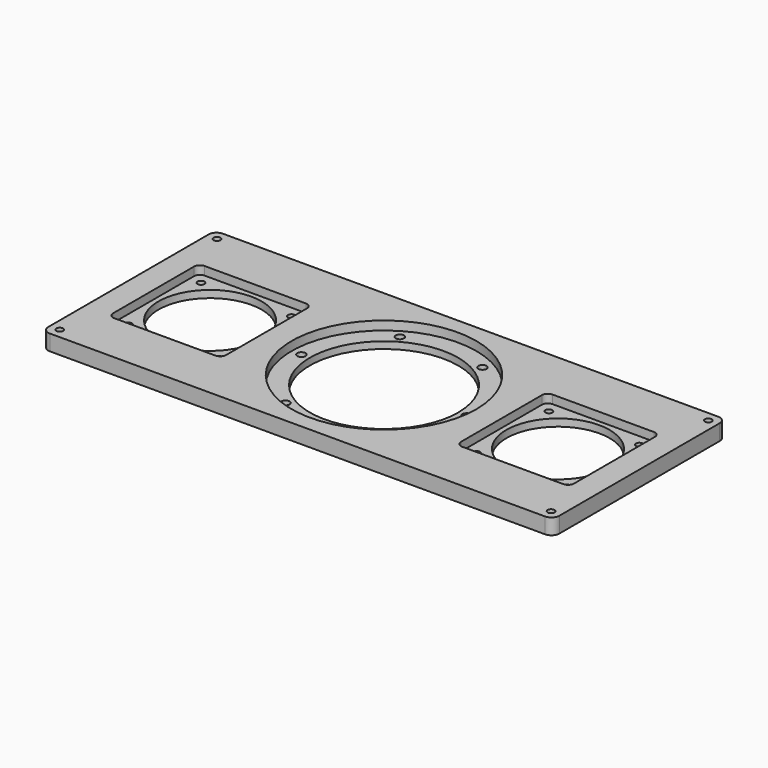
from build123d import *

# Parameters (mm, degrees)
SKETCH_W           = 260
SKETCH_H           = 110
SKETCH_R           = 37.75
SKETCH_R_2         = 26.25
SKETCH_R_3         = 1.75
PAD_DEPTH          = 8
SKETCH001_R        = 2.1
POCKET_DEPTH       = 8
POLARPATTERN_COUNT = 6
SKETCH002_R        = 47
SKETCH002_R_2      = 1.75
POCKET001_DEPTH    = 4.5
SKETCH003_R        = 26.25
POCKET002_DEPTH    = 4.3
SKETCH004_R        = 1.75
POCKET003_DEPTH    = 8
FILLET002_R        = 4


with BuildPart() as part:
    # Sketch → Pad (new body)
    with BuildSketch(Plane.XY):
        Rectangle(SKETCH_W, SKETCH_H)
        Circle(SKETCH_R, mode=Mode.SUBTRACT)
        with Locations((88.5, 0)):
            Circle(SKETCH_R_2, mode=Mode.SUBTRACT)
        with Locations((-88.5, 0)):
            Circle(SKETCH_R_2, mode=Mode.SUBTRACT)
        with Locations((111.516326, -23.016326)):
            Circle(SKETCH_R_3, mode=Mode.SUBTRACT)
        with Locations((111.516326, 23.016326)):
            Circle(SKETCH_R_3, mode=Mode.SUBTRACT)
        with Locations((65.483674, 23.016326)):
            Circle(SKETCH_R_3, mode=Mode.SUBTRACT)
        with Locations((65.483674, -23.016326)):
            Circle(SKETCH_R_3, mode=Mode.SUBTRACT)
        with Locations((-111.516326, 23.016326)):
            Circle(SKETCH_R_3, mode=Mode.SUBTRACT)
        with Locations((-65.483674, 23.016326)):
            Circle(SKETCH_R_3, mode=Mode.SUBTRACT)
        with Locations((-65.483674, -23.016326)):
            Circle(SKETCH_R_3, mode=Mode.SUBTRACT)
        with Locations((-111.516326, -23.016326)):
            Circle(SKETCH_R_3, mode=Mode.SUBTRACT)
    extrude(amount=PAD_DEPTH)

    # Sketch001 (on Face17 of Pad) → Pocket (cut)
    with BuildSketch(Plane.XY.offset(8)):
        with Locations((42, 0)):
            Circle(SKETCH001_R)
    pocket = extrude(amount=-POCKET_DEPTH, mode=Mode.SUBTRACT)

    # PolarPattern: Pocket ×6 about axis
    polarpattern_axis = Axis((0, 0, 8), (0, 0, 1))
    for i in range(1, POLARPATTERN_COUNT):
        add(pocket.rotate(polarpattern_axis, i * 360 / POLARPATTERN_COUNT), mode=Mode.SUBTRACT)

    # Sketch002 (on Face5 of PolarPattern) → Pocket001 (cut)
    with BuildSketch(Plane.XY.offset(8)):
        Circle(SKETCH002_R)
        Circle(SKETCH002_R_2, mode=Mode.SUBTRACT)
    extrude(amount=-POCKET001_DEPTH, mode=Mode.SUBTRACT)

    # Sketch003 (on Face5 of Pocket001) → Pocket002 (cut)
    with BuildSketch(Plane.XY.offset(8)):
        with BuildLine():
            Line((-114.25, 28.75), (-62.75, 28.75))
            ThreePointArc((-59.75, 25.75), (-60.62868, 27.87132), (-62.75, 28.75))
            Line((-59.75, 25.75), (-59.75, -25.75))
            ThreePointArc((-62.75, -28.75), (-60.62868, -27.87132), (-59.75, -25.75))
            Line((-62.75, -28.75), (-114.25, -28.75))
            ThreePointArc((-117.25, -25.75), (-116.37132, -27.87132), (-114.25, -28.75))
            Line((-117.25, -25.75), (-117.25, 25.75))
            ThreePointArc((-114.25, 28.75), (-116.37132, 27.87132), (-117.25, 25.75))
        make_face()
        with Locations((-88.5, 0)):
            Circle(SKETCH003_R, mode=Mode.SUBTRACT)
        with BuildLine():
            Line((62.75, 28.75), (114.25, 28.75))
            ThreePointArc((117.25, 25.75), (116.37132, 27.87132), (114.25, 28.75))
            Line((117.25, 25.75), (117.25, -25.75))
            ThreePointArc((114.25, -28.75), (116.37132, -27.87132), (117.25, -25.75))
            Line((114.25, -28.75), (62.75, -28.75))
            ThreePointArc((59.75, -25.75), (60.62868, -27.87132), (62.75, -28.75))
            Line((59.75, -25.75), (59.75, 25.75))
            ThreePointArc((62.75, 28.75), (60.62868, 27.87132), (59.75, 25.75))
        make_face()
        with Locations((88.5, 0)):
            Circle(SKETCH003_R, mode=Mode.SUBTRACT)
    extrude(amount=-POCKET002_DEPTH, mode=Mode.SUBTRACT)

    # Sketch004 (on Face5 of Pocket002) → Pocket003 (cut)
    with BuildSketch(Plane.XY.offset(8)):
        with Locations((-125, 50)):
            Circle(SKETCH004_R)
        with Locations((-125, -50)):
            Circle(SKETCH004_R)
        with Locations((125, -50)):
            Circle(SKETCH004_R)
        with Locations((125, 50)):
            Circle(SKETCH004_R)
    extrude(amount=-POCKET003_DEPTH, mode=Mode.SUBTRACT)

    # Fillet002
    fillet002_edges = [part.edges().sort_by_distance(p)[0] for p in [
        (130, -55, 4),
        (-130, -55, 4),
        (-130, 55, 4),
        (130, 55, 4),
    ]]
    fillet(fillet002_edges, radius=FILLET002_R)


solid = part.part
